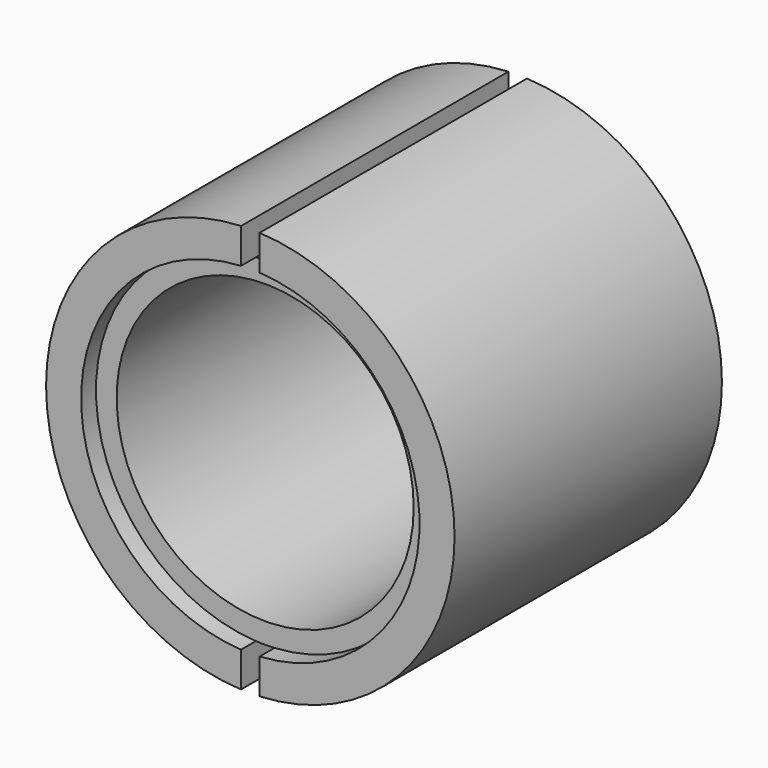
from build123d import *

# Parameters (mm, degrees)
F0_R     = 11
F0_R_2   = 9.1123830153
F1_DEPTH = 18
F3_DEPTH = 25
F0_R_3   = 8
F4_DEPTH = 17


with BuildPart() as f1:
    # F0 (on Front) → F1 (new body)
    with BuildSketch(Plane.XZ):
        Circle(F0_R)
        Circle(F0_R_2, mode=Mode.SUBTRACT)
    extrude(amount=F1_DEPTH)

    # F2 (on Front) → F3 (cut)
    with BuildSketch(Plane.XZ):
        Polygon((-0.5, 11.3087910658), (-0.5, 1.3087910658), (0.5, 1.3087910658), (0.5, 11.2789400049), align=None)
        Polygon((0.5, -1.3087910658), (-0.5, -1.3087910658), (-0.5, -11.3087910658), (0.5, -11.2789400049), align=None)
    extrude(amount=F3_DEPTH, mode=Mode.SUBTRACT)

    # F0 (on Front) → F4 (join)
    with BuildSketch(Plane.XZ):
        Circle(F0_R_2)
        Circle(F0_R_3, mode=Mode.SUBTRACT)
    extrude(amount=F4_DEPTH)


solid = f1.part
